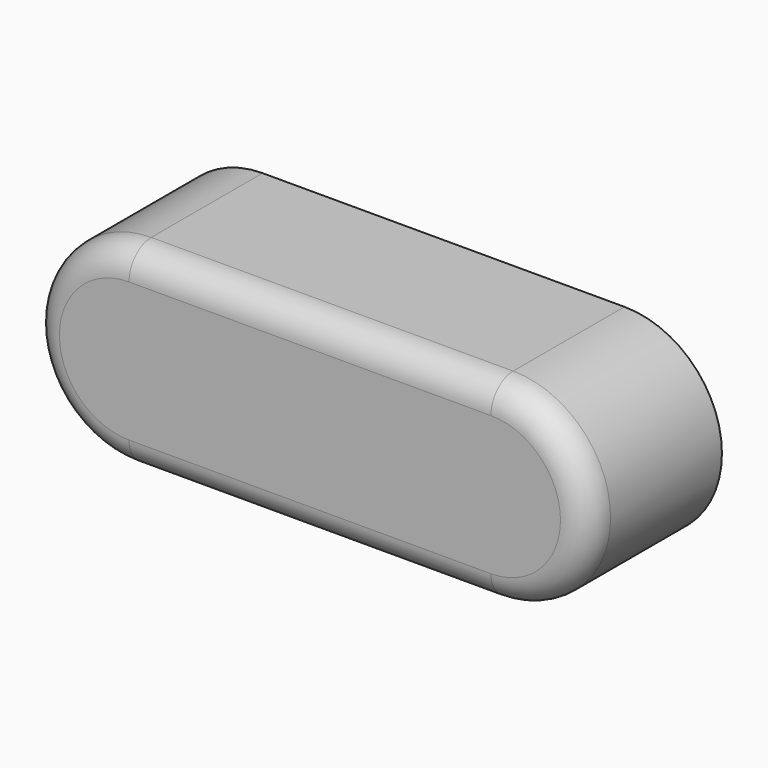
from build123d import *

# Parameters (mm, degrees)
F1_DEPTH = 3
F2_R     = 0.5


with BuildPart() as f1:
    # F0 (on Front) → F1 (new body)
    with BuildSketch(Plane.XZ):
        with BuildLine():
            Line((-3.647967, 1.75), (-10.147967, 1.75))
            ThreePointArc((-10.147967, 1.75), (-11.897967, 0), (-10.147967, -1.75))
            Line((-10.147967, -1.75), (-3.647967, -1.75))
            ThreePointArc((-3.647967, -1.75), (-1.897967, 0), (-3.647967, 1.75))
        make_face()
    extrude(amount=F1_DEPTH)

    # F2
    f2_edges = [f1.edges().sort_by_distance(p)[0] for p in [
        (-6.897967, -3, 1.75),
        (-1.897967, -3, 0),
        (-6.897967, -3, -1.75),
        (-11.897967, -3, 0),
    ]]
    fillet(f2_edges, radius=F2_R)


solid = f1.part
